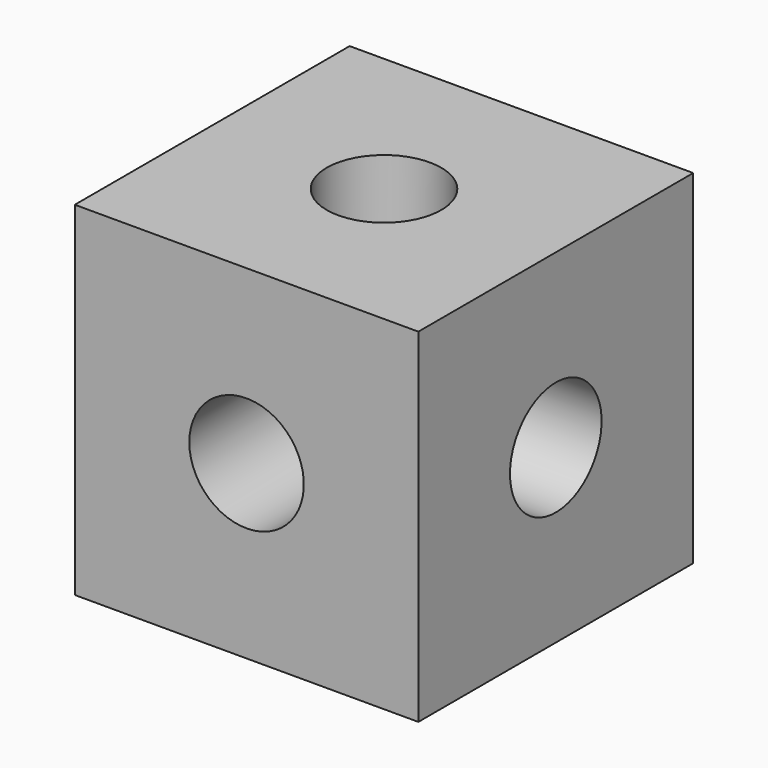
from build123d import *

# Parameters (mm, degrees)
F6_W     = 76.2
F6_H     = 76.2
F0_DEPTH = 76.2
F1_D     = 25.4
F8_D     = 25.4
F4_D     = 25.4


with BuildPart() as f0:
    # F6 (on Right) → F0 (new body)
    with BuildSketch(Plane.YZ):
        Rectangle(F6_W, F6_H)
    extrude(amount=-F0_DEPTH)

    # F1 (through all)
    with Locations(Plane.XZ.offset(38.1)):
        with Locations((-38.1, 0)):
            Hole(F1_D / 2)

    # F8 (through all)
    with Locations(Plane.XY.offset(38.1)):
        with Locations((-38.1, 0)):
            Hole(F8_D / 2)

    # F4 (through all)
    with Locations(Plane.YZ):
        with Locations((0, 0)):
            Hole(F4_D / 2)


solid = f0.part
